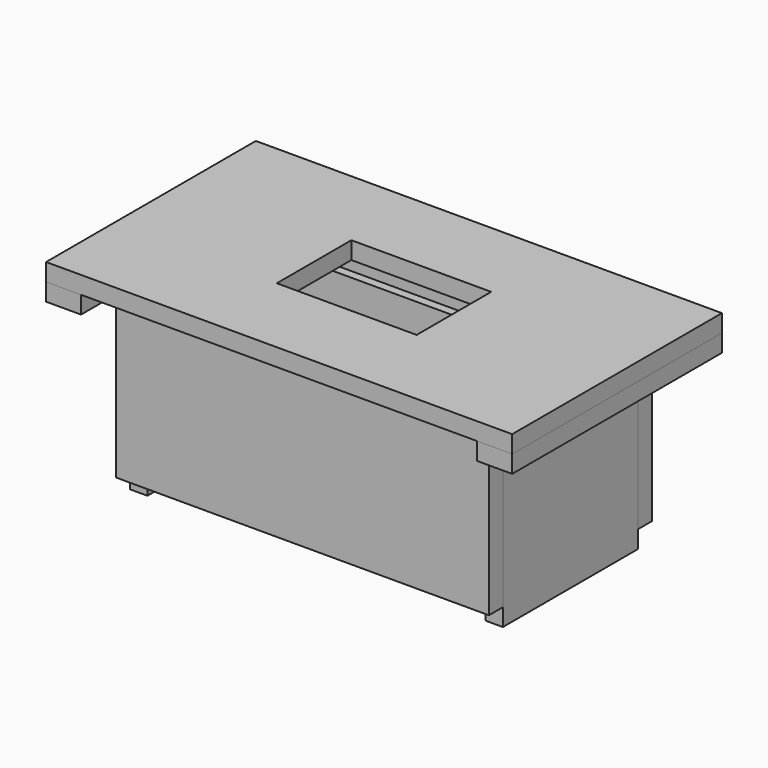
from build123d import *

# Parameters (mm, degrees)
F0_W      = 368.3
F0_H      = 184.15
F1_DEPTH  = 19.05
F2_W      = 184.15
F2_H      = 203.2
F3_DEPTH  = 19.05
F5_DEPTH  = 19.05
F6_R      = 12.7
F7_DEPTH  = 406.401
F8_R      = 12.7
F9_DEPTH  = 406.4
F10_W     = 406.4
F10_H     = 139.7
F11_DEPTH = 19.05
F12_W     = 406.4
F12_H     = 184.15
F13_DEPTH = 19.05
F14_W     = 508
F14_H     = 285.75
F14_W_2   = 152.4
F14_H_2   = 101.6
F15_DEPTH = 19.05
F16_W     = 38.1
F16_H     = 285.75
F17_DEPTH = 19.05
F18_W     = 406.4
F18_H     = 38.1
F19_DEPTH = 19.05


with BuildPart() as f1:
    # F0 (on Top) → F1 (new body)
    with BuildSketch(Plane.XY):
        Rectangle(F0_W, F0_H)
    extrude(amount=F1_DEPTH)


with BuildPart() as f3:
    # F2 (on face) → F3 (new body)
    with BuildSketch(Plane.YZ.offset(184.15)):
        with Locations((0, 82.55)):
            Rectangle(F2_W, F2_H)
    extrude(amount=F3_DEPTH)


with BuildPart() as f5:
    # F4 (on face) → F5 (new body)
    with BuildSketch(Plane(origin=(-184.15, 0, 0), x_dir=(0, -1, 0), z_dir=(-1, 0, 0))):
        Polygon((92.075, -19.05), (92.075, 184.15), (-92.075, 184.15), (-92.075, -19.05), (0, -19.05), align=None)
    extrude(amount=F5_DEPTH)


with BuildPart() as f7_tool:
    # F6 (on face) → F7 (new body, through all)
    with BuildSketch(Plane(origin=(-203.2, 0, 0), x_dir=(0, -1, 0), z_dir=(-1, 0, 0))):
        with Locations((0, 146.05)):
            Circle(F6_R)
    extrude(amount=-F7_DEPTH)


with BuildPart() as f3_1:
    add(f3.part)

    # F7: cut by f7_tool
    add(f7_tool.part, mode=Mode.SUBTRACT)


with BuildPart() as f5_1:
    add(f5.part)

    # F7: cut by f7_tool
    add(f7_tool.part, mode=Mode.SUBTRACT)


with BuildPart() as f9:
    # F8 (on face) → F9 (new body, through all)
    with BuildSketch(Plane(origin=(-203.2, 0, 0), x_dir=(0, -1, 0), z_dir=(-1, 0, 0))):
        with Locations((0, 146.05)):
            Circle(F8_R)
    extrude(amount=-F9_DEPTH)


with BuildPart() as f11:
    # F10 (on face) → F11 (new body)
    with BuildSketch(Plane(origin=(0, 92.075, 0), x_dir=(-1, 0, 0), z_dir=(0, 1, 0))):
        with Locations((0, 69.85)):
            Rectangle(F10_W, F10_H)
    extrude(amount=F11_DEPTH)


with BuildPart() as f13:
    # F12 (on face) → F13 (new body)
    with BuildSketch(Plane.XZ.offset(92.075)):
        with Locations((0, 92.075)):
            Rectangle(F12_W, F12_H)
    extrude(amount=F13_DEPTH)


with BuildPart() as f15:
    # F14 (on face) → F15 (new body)
    with BuildSketch(Plane.XY.offset(184.15)):
        Rectangle(F14_W, F14_H)
        Rectangle(F14_W_2, F14_H_2, mode=Mode.SUBTRACT)
    extrude(amount=F15_DEPTH)


with BuildPart() as f17:
    # F16 (on face) → F17 (new body)
    with BuildSketch(Plane(origin=(0, 0, 184.15), x_dir=(1, 0, 0), z_dir=(0, 0, -1))):
        with Locations((-234.95, 0)):
            Rectangle(F16_W, F16_H)
        with Locations((234.95, 0)):
            Rectangle(F16_W, F16_H)
    extrude(amount=F17_DEPTH)


with BuildPart() as f19:
    # F18 (on face) → F19 (new body)
    with BuildSketch(Plane(origin=(0, 92.075, 0), x_dir=(-1, 0, 0), z_dir=(0, 1, 0))):
        with Locations((0, 165.1)):
            Rectangle(F18_W, F18_H)
    extrude(amount=F19_DEPTH)


solid = Compound([f1.part, f3_1.part, f5_1.part, f9.part, f11.part, f13.part, f15.part, f17.part, f19.part])
